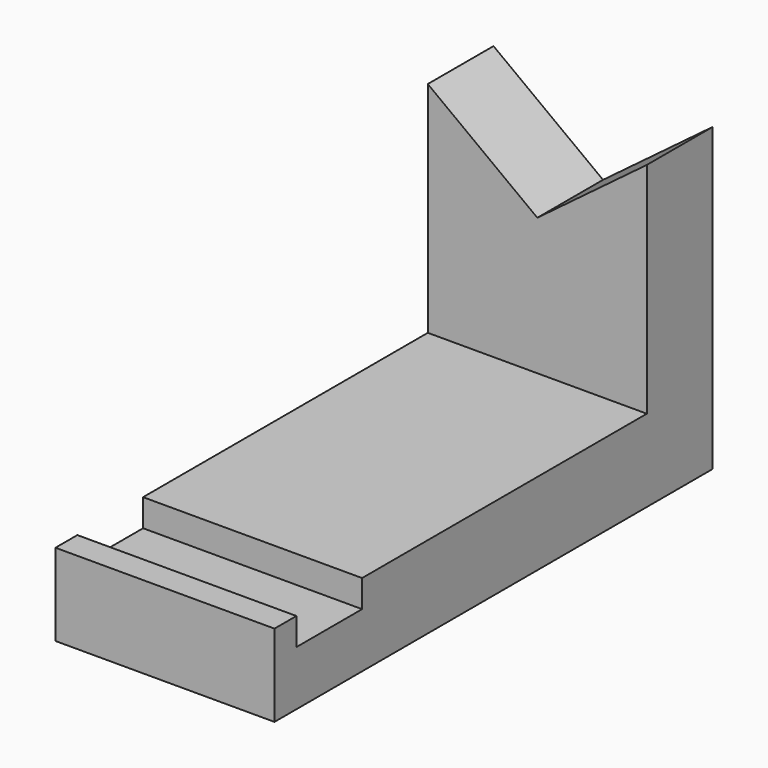
from build123d import *

# Parameters (mm, degrees)
F0_W          = 50.8
F0_H          = 127
F1_DEPTH      = 19.05
F2_W          = 50.8
F2_H          = 19.05
F3_DEPTH      = 6.35
F4_W          = 50.8
F4_H          = 19.05
F5_DEPTH      = 50.8
F7_DEPTH      = 19.051
F7_DEPTH_BACK = 107.951


with BuildPart() as f1:
    # F0 (on Top) → F1 (new body)
    with BuildSketch(Plane.XY):
        Rectangle(F0_W, F0_H)
    extrude(amount=F1_DEPTH)

    # F2 (on face) → F3 (cut)
    with BuildSketch(Plane.XY.offset(19.05)):
        with Locations((0, -47.625)):
            Rectangle(F2_W, F2_H)
    extrude(amount=-F3_DEPTH, mode=Mode.SUBTRACT)

    # F4 (on face) → F5 (join)
    with BuildSketch(Plane.XY.offset(19.05)):
        with Locations((0, 53.975)):
            Rectangle(F4_W, F4_H)
    extrude(amount=F5_DEPTH)

    # F6 (on face) → F7 (cut, two sides)
    with BuildSketch(Plane.XZ.offset(-44.45)) as f7_sk:
        Polygon((25.4, 69.85), (0, 69.85), (0, 50.8), align=None)
        Polygon((0, 50.8), (0, 69.85), (-25.4, 69.85), align=None)
    extrude(amount=-F7_DEPTH, mode=Mode.SUBTRACT)
    extrude(f7_sk.sketch, amount=-F7_DEPTH_BACK, mode=Mode.SUBTRACT)


solid = f1.part
